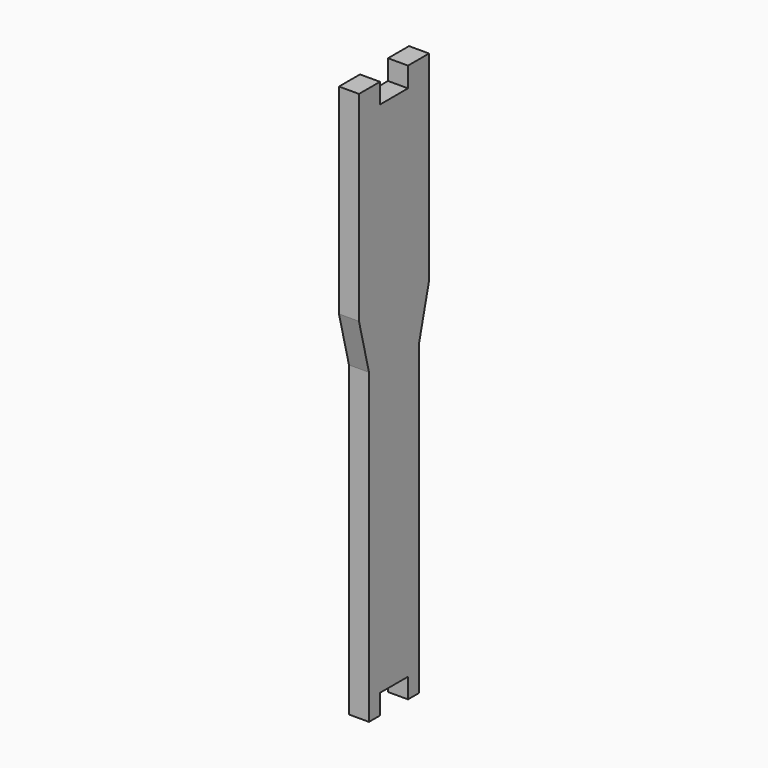
from build123d import *

# Parameters (mm, degrees)
F1_DEPTH = 4


with BuildPart() as f1:
    # F0 (on Right) → F1 (new body, symmetric)
    with BuildSketch(Plane.YZ):
        Polygon((7, 39.945122), (-7, 39.945122), (-7, 47.945122), (-17.5, 47.945122), (-17.5, -32.054878), (-12.5, -52.054878), (-12.5, -175.054878), (-7, -175.054878), (-7, -167.054878), (7, -167.054878), (7, -175.054878), (12.5, -175.054878), (12.5, -52.054878), (17.5, -32.054878), (17.5, 47.945122), (7, 47.945122), align=None)
    extrude(amount=F1_DEPTH, both=True)


solid = f1.part
